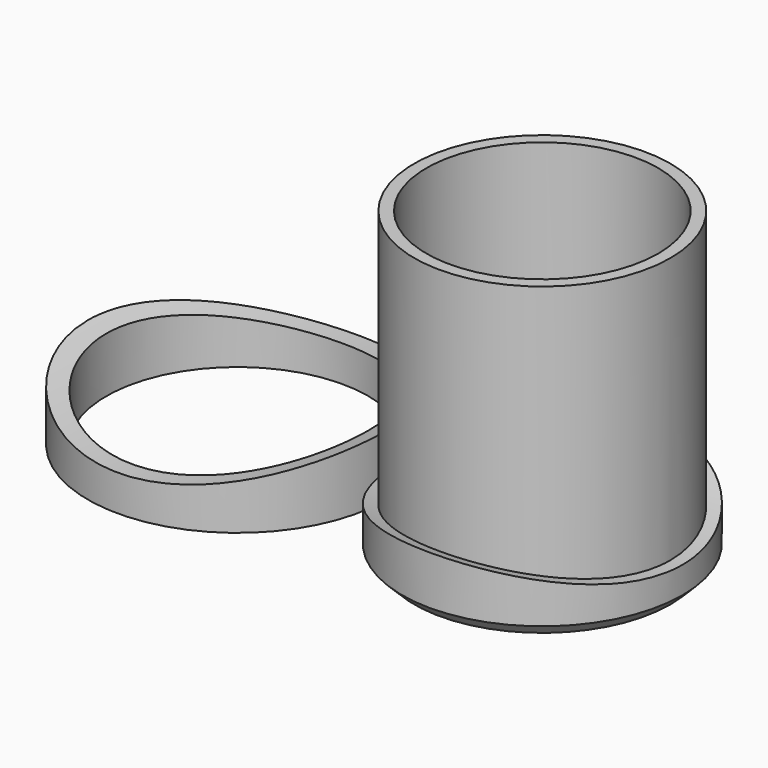
from build123d import *

# Parameters (mm, degrees)
F0_R      = 23
F0_R_2    = 16
F1_DEPTH  = 3
F2_R      = 23
F2_R_2    = 19
F3_DEPTH  = 25
F5_DEPTH  = 50
F6_R      = 21
F6_R_2    = 19
F7_DEPTH  = 50
F8_R      = 24.5
F8_R_2    = 21.5
F9_DEPTH  = 25
F11_DEPTH = 50
F12_SIZE  = 2


with BuildPart() as f1:
    # F0 (on Top) → F1 (new body)
    with BuildSketch(Plane.XY):
        Circle(F0_R)
        Circle(F0_R_2, mode=Mode.SUBTRACT)
    extrude(amount=F1_DEPTH)

    # F2 (on face) → F3 (join)
    with BuildSketch(Plane.XY.offset(3)):
        Circle(F2_R)
        Circle(F2_R_2, mode=Mode.SUBTRACT)
    extrude(amount=F3_DEPTH)

    # F4 (on Right) → F5 (cut, symmetric)
    with BuildSketch(Plane.YZ):
        with BuildLine():
            Line((-32.46776, 33.882733), (-23, 10))
            ThreePointArc((-23, 10), (0, 6.386273), (23, 10))
            Line((23, 10), (36.376942, 33.882733))
            Line((36.376942, 33.882733), (-32.46776, 33.882733))
        make_face()
    extrude(amount=F5_DEPTH, both=True, mode=Mode.SUBTRACT)

    # F6 (on Top) → F7 (join)
    with BuildSketch(Plane.XY):
        Circle(F6_R)
        Circle(F6_R_2, mode=Mode.SUBTRACT)
    extrude(amount=F7_DEPTH)

    # F12
    f12_edges = [f1.edges().sort_by_distance(p)[0] for p in [
        (-23, 0, 0),
        (-16, 0, 0),
    ]]
    chamfer(f12_edges, length=F12_SIZE)


with BuildPart() as f9:
    # F8 (on Top) → F9 (new body)
    with BuildSketch(Plane.XY):
        with Locations((-50, 0)):
            Circle(F8_R)
        with Locations((-50, 0)):
            Circle(F8_R_2, mode=Mode.SUBTRACT)
    extrude(amount=F9_DEPTH)

    # F10 (on Front) → F11 (cut, symmetric)
    with BuildSketch(Plane.XZ):
        with BuildLine():
            Line((-81.317961, 36.653891), (-74.5, 10))
            ThreePointArc((-74.5, 10), (-50, 5.885471), (-25.5, 10))
            Line((-25.5, 10), (-22.981653, 35.573591))
            Line((-22.981653, 35.573591), (-81.317961, 36.653891))
        make_face()
    extrude(amount=F11_DEPTH, both=True, mode=Mode.SUBTRACT)


solid = Compound([f1.part, f9.part])
